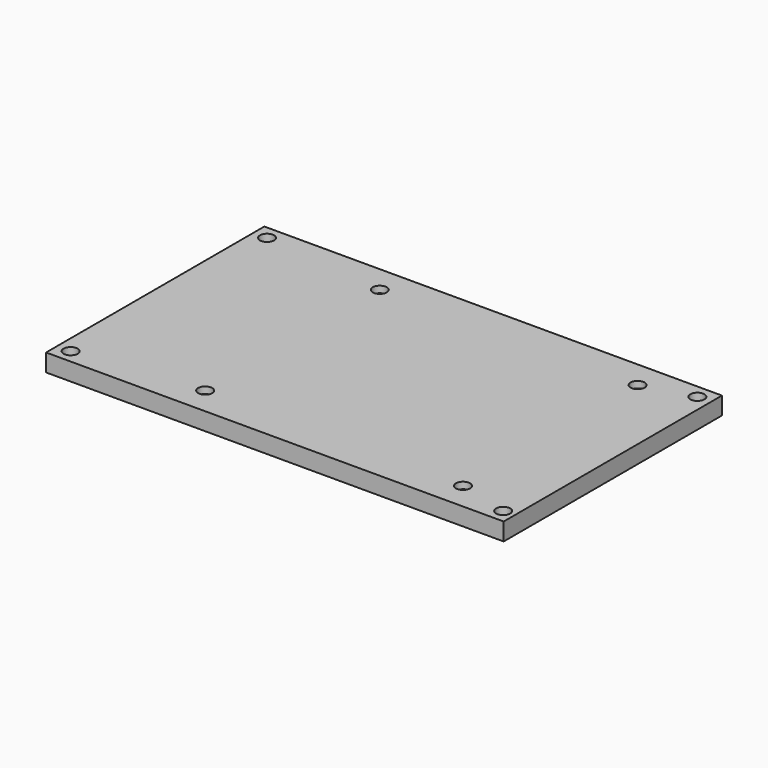
from build123d import *

# Parameters (mm, degrees)
SKETCH002_R       = 1.6
EXTRUDE002_DEPTH  = 2.5
SKETCH003_R       = 1.6
EXTRUDE003_DEPTH  = 2.5
SKETCH004_R       = 1.6
EXTRUDE004_DEPTH  = 2.5
SKETCH001_R       = 1.6
EXTRUDE001_DEPTH  = 2.5
SKETCH_R          = 1.6
EXTRUDE_DEPTH     = 10
CYLINDER007_R     = 1.6
CYLINDER007_DEPTH = 10
CYLINDER006_R     = 1.6
CYLINDER006_DEPTH = 10
CYLINDER005_R     = 1.6
CYLINDER005_DEPTH = 10
CYLINDER004_R     = 1.6
CYLINDER004_DEPTH = 10
BOX001_W          = 104
BOX001_H          = 62
BOX001_DEPTH      = 4


with BuildPart() as nylon_nut_cutout001:
    # Sketch002 → Extrude002 (new body)
    with BuildSketch(Plane.XY):
        Polygon((3.2, 0), (1.6, 2.771281), (-1.6, 2.771281), (-3.2, 0), (-1.6, -2.771281), (1.6, -2.771281), align=None)
        Circle(SKETCH002_R, mode=Mode.SUBTRACT)
    extrude(amount=EXTRUDE002_DEPTH)


with BuildPart() as nylon_nut_cutout001_1:
    # Extrude002 placement: moved
    add(nylon_nut_cutout001.part.moved(Location((-72.8, 6.2, 0))))


with BuildPart() as nylon_nut_cutout002:
    # Sketch003 → Extrude003 (new body)
    with BuildSketch(Plane.XY):
        Polygon((3.2, 0), (1.6, 2.771281), (-1.6, 2.771281), (-3.2, 0), (-1.6, -2.771281), (1.6, -2.771281), align=None)
        Circle(SKETCH003_R, mode=Mode.SUBTRACT)
    extrude(amount=EXTRUDE003_DEPTH)


with BuildPart() as nylon_nut_cutout002_1:
    # Extrude003 placement: moved
    add(nylon_nut_cutout002.part.moved(Location((-72.8, 55.8, 0))))


with BuildPart() as nylon_nut_cutout003:
    # Sketch004 → Extrude004 (new body)
    with BuildSketch(Plane.XY):
        Polygon((3.2, 0), (1.6, 2.771281), (-1.6, 2.771281), (-3.2, 0), (-1.6, -2.771281), (1.6, -2.771281), align=None)
        Circle(SKETCH004_R, mode=Mode.SUBTRACT)
    extrude(amount=EXTRUDE004_DEPTH)


with BuildPart() as nylon_nut_cutout003_1:
    # Extrude004 placement: moved
    add(nylon_nut_cutout003.part.moved(Location((-14.2, 55.8, 0))))


with BuildPart() as nylon_nut_cutout:
    # Sketch001 → Extrude001 (new body)
    with BuildSketch(Plane.XY):
        Polygon((3.2, 0), (1.6, 2.771281), (-1.6, 2.771281), (-3.2, 0), (-1.6, -2.771281), (1.6, -2.771281), align=None)
        Circle(SKETCH001_R, mode=Mode.SUBTRACT)
    extrude(amount=EXTRUDE001_DEPTH)


with BuildPart() as nylon_nut_cutout_1:
    # Extrude001 placement: moved
    add(nylon_nut_cutout.part.moved(Location((-14.2, 6.2, 0))))


with BuildPart() as extrude_body:
    # Sketch → Extrude (new body)
    with BuildSketch(Plane.XY):
        with Locations((-72.8, 55.8)):
            Circle(SKETCH_R)
        with Locations((-14.2, 55.8)):
            Circle(SKETCH_R)
        with Locations((-14.2, 6.2)):
            Circle(SKETCH_R)
        with Locations((-72.8, 6.2)):
            Circle(SKETCH_R)
    extrude(amount=EXTRUDE_DEPTH)


with BuildPart() as mount_point003:
    # Cylinder007 → Cylinder007 (new body)
    with BuildSketch(Plane(origin=(-3.1, 58.9, 0), x_dir=(1, 0, 0), z_dir=(0, 0, 1))):
        Circle(CYLINDER007_R)
    extrude(amount=CYLINDER007_DEPTH)


with BuildPart() as mount_point002:
    # Cylinder006 → Cylinder006 (new body)
    with BuildSketch(Plane(origin=(-100.9, 58.9, 0), x_dir=(1, 0, 0), z_dir=(0, 0, 1))):
        Circle(CYLINDER006_R)
    extrude(amount=CYLINDER006_DEPTH)


with BuildPart() as mount_point001:
    # Cylinder005 → Cylinder005 (new body)
    with BuildSketch(Plane(origin=(-100.9, 3.1, 0), x_dir=(1, 0, 0), z_dir=(0, 0, 1))):
        Circle(CYLINDER005_R)
    extrude(amount=CYLINDER005_DEPTH)


with BuildPart() as mount_point:
    # Cylinder004 → Cylinder004 (new body)
    with BuildSketch(Plane(origin=(-2.6, 3.1, 0), x_dir=(1, 0, 0), z_dir=(0, 0, 1))):
        Circle(CYLINDER004_R)
    extrude(amount=CYLINDER004_DEPTH)


with BuildPart() as obj1:
    # Box001 → Box001 (new body)
    with BuildSketch(Plane(origin=(-104, 0, 0), x_dir=(1, 0, 0), z_dir=(0, 0, 1))):
        with Locations((52, 31)):
            Rectangle(BOX001_W, BOX001_H)
    extrude(amount=BOX001_DEPTH)

    # Cut005: cut Mount Point
    add(mount_point.part, mode=Mode.SUBTRACT)

    # Cut006: cut Mount Point001
    add(mount_point001.part, mode=Mode.SUBTRACT)

    # Cut007: cut Mount Point002
    add(mount_point002.part, mode=Mode.SUBTRACT)

    # Cut008: cut Mount Point003
    add(mount_point003.part, mode=Mode.SUBTRACT)

    # Cut: cut Extrude body
    add(extrude_body.part, mode=Mode.SUBTRACT)

    # Cut009: cut Nylon Nut Cutout
    add(nylon_nut_cutout_1.part, mode=Mode.SUBTRACT)

    # Cut010: cut Nylon Nut Cutout003
    add(nylon_nut_cutout003_1.part, mode=Mode.SUBTRACT)

    # Cut011: cut Nylon Nut Cutout002
    add(nylon_nut_cutout002_1.part, mode=Mode.SUBTRACT)

    # Cut012: cut Nylon Nut Cutout001
    add(nylon_nut_cutout001_1.part, mode=Mode.SUBTRACT)


solid = obj1.part
